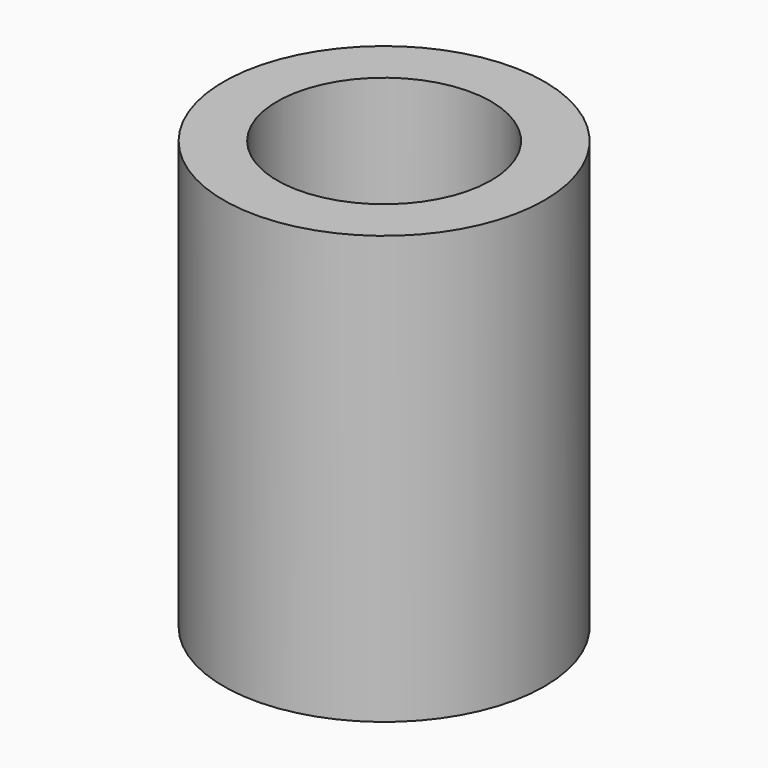
from build123d import *

# Parameters (mm, degrees)
F0_R     = 7.5
F1_DEPTH = 20
F2_R     = 5
F3_DEPTH = 15
F4_W     = 3.4
F4_H     = 3.4
F5_DEPTH = 10


with BuildPart() as f1:
    # F0 (on Top) → F1 (new body)
    with BuildSketch(Plane.XY):
        Circle(F0_R)
    extrude(amount=F1_DEPTH)

    # F2 (on face) → F3 (cut)
    with BuildSketch(Plane.XY.offset(20)):
        Circle(F2_R)
    extrude(amount=-F3_DEPTH, mode=Mode.SUBTRACT)

    # F4 (on face) → F5 (cut)
    with BuildSketch(Plane(origin=(0, 0, 0), x_dir=(1, 0, 0), z_dir=(0, 0, -1))):
        Rectangle(F4_W, F4_H)
    extrude(amount=-F5_DEPTH, mode=Mode.SUBTRACT)


solid = f1.part
